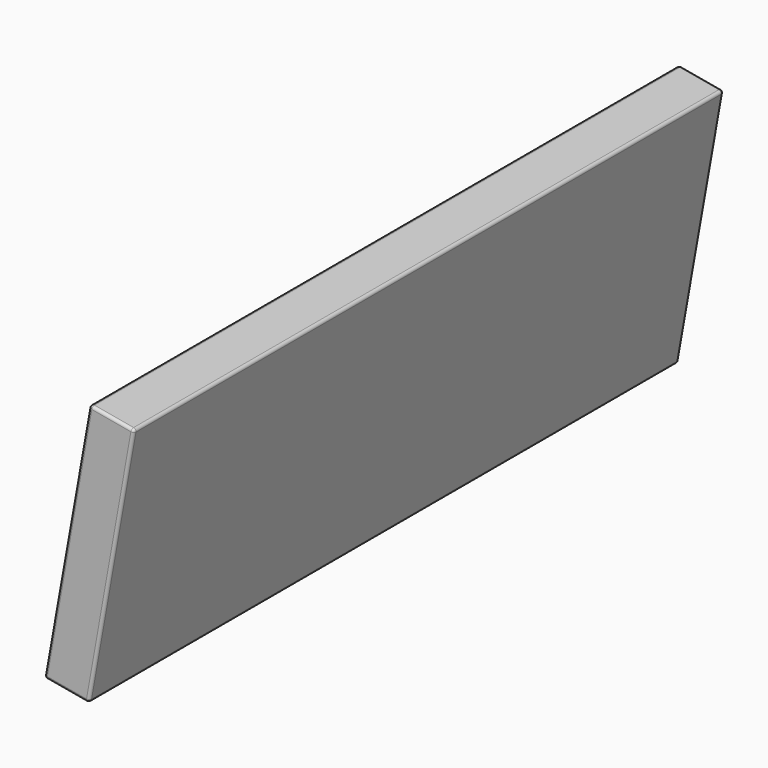
from build123d import *

# Parameters (mm, degrees)
F1_DEPTH = 650
F2_R     = 5


with BuildPart() as f1:
    # F0 (on Front) → F1 (new body, symmetric)
    with BuildSketch(Plane.XZ):
        Polygon((-40, -225), (40, 225), (-38.765001, 239.002667), (-118.765001, -210.997333), align=None)
    extrude(amount=F1_DEPTH, both=True)

    # F2
    f2_edges = [f1.edges().sort_by_distance(p)[0] for p in [
        (40, 0, 225),
        (-38.765001, 0, 239.002667),
        (0.6175, -650, 232.001333),
        (0, -650, 0),
        (-78.765001, -650, 14.002667),
        (-79.3825, -650, -217.998667),
        (-40, 0, -225),
        (-118.765001, 0, -210.997333),
        (-79.3825, 650, -217.998667),
        (0, 650, 0),
        (0.6175, 650, 232.001333),
        (-78.765001, 650, 14.002667),
    ]]
    fillet(f2_edges, radius=F2_R)


solid = f1.part
